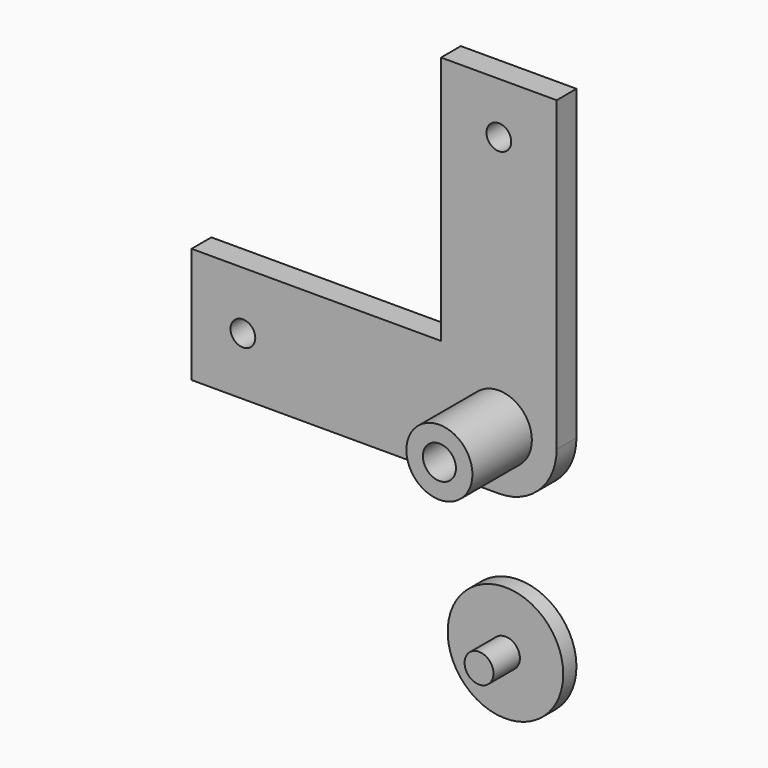
from build123d import *

# Parameters (mm, degrees)
F0_R     = 1.5
F0_R_2   = 4
F1_DEPTH = 3
F2_DEPTH = 12
F4_R     = 7
F4_R_2   = 1.75
F5_DEPTH = 2
F6_DEPTH = 6
F3_R     = 2
F7_DEPTH = 4


with BuildPart() as f1:
    # F0 (on Front) → F1 (new body)
    with BuildSketch(Plane.XZ):
        with BuildLine():
            Line((-37.220689, -7), (0, -7))
            ThreePointArc((0, -7), (4.949747, -4.949747), (7, 0))
            Line((7, 0), (7, 37.220689))
            Line((7, 37.220689), (-7, 37.220689))
            Line((-7, 37.220689), (-7, 7))
            Line((-7, 7), (-37.220689, 7))
            Line((-37.220689, 7), (-37.220689, -7))
        make_face()
        with Locations((-31.002669, 0)):
            Circle(F0_R, mode=Mode.SUBTRACT)
        Circle(F0_R_2, mode=Mode.SUBTRACT)
        with Locations((0, 31.002669)):
            Circle(F0_R, mode=Mode.SUBTRACT)
    extrude(amount=F1_DEPTH)

    # F0 (on Front) → F2 (join)
    with BuildSketch(Plane.XZ):
        Circle(F0_R_2)
    extrude(amount=F2_DEPTH)

    # F3 (on face) → F7 (cut)
    with BuildSketch(Plane.XZ.offset(12)):
        Circle(F3_R)
    extrude(amount=-F7_DEPTH, mode=Mode.SUBTRACT)


with BuildPart() as f5:
    # F4 (on Front) → F5 (new body)
    with BuildSketch(Plane.XZ):
        with Locations((0, -24.396977)):
            Circle(F4_R)
        with Locations((0, -24.396977)):
            Circle(F4_R_2, mode=Mode.SUBTRACT)
    extrude(amount=F5_DEPTH)

    # F4 (on Front) → F6 (join)
    with BuildSketch(Plane.XZ):
        with Locations((0, -24.396977)):
            Circle(F4_R_2)
    extrude(amount=F6_DEPTH)


solid = Compound([f1.part, f5.part])
